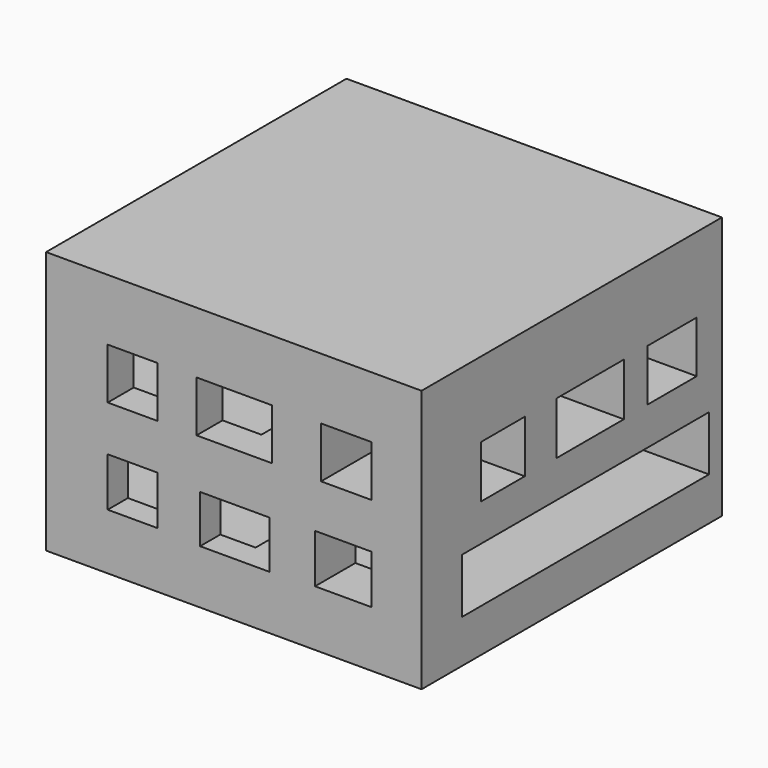
from build123d import *

# Parameters (mm, degrees)
F0_W      = 254
F0_H      = 177.8
F1_DEPTH  = 254
F2_W      = 24.176218
F2_H      = 76.2
F2_W_2    = 24.083782
F3_DEPTH  = 25.4
F4_W      = 33.765226
F4_H      = 33.023134
F4_W_2    = 38.217779
F4_W_3    = 34.136269
F4_H_2    = 34.507318
F4_W_4    = 51.204408
F5_DEPTH  = 254
F6_W      = 46.953924
F6_H      = 32.328948
F7_DEPTH  = 508
F8_W      = 227.147804
F8_H      = 45.486924
F8_W_2    = 42.393267
F8_H_2    = 41.027097
F8_W_3    = 63.705511
F8_H_3    = 42.462038
F8_W_4    = 41.108959
F8_H_4    = 39.725055
F9_DEPTH  = 254
F10_W     = 208.975072
F10_H     = 37.064538
F10_W_2   = 36.99249
F10_H_2   = 35.475526
F10_W_3   = 57.111204
F10_H_3   = 35.570968
F10_W_4   = 41.535424
F10_H_4   = 34.99518
F11_DEPTH = 127


with BuildPart() as f1:
    # F0 (on Front) → F1 (new body)
    with BuildSketch(Plane.XZ):
        with Locations((-1.067655, -37.961216)):
            Rectangle(F0_W, F0_H)
    extrude(amount=F1_DEPTH)

    # F2 (on Front) → F3 (cut)
    with BuildSketch(Plane.XZ):
        with Locations((-12.088109, -92.779977)):
            Rectangle(F2_W, F2_H)
        with Locations((12.041891, -92.779977)):
            Rectangle(F2_W_2, F2_H)
    extrude(amount=F3_DEPTH, mode=Mode.SUBTRACT)

    # F4 (on Front) → F5 (cut)
    with BuildSketch(Plane.XZ):
        with Locations((-69.497861, -72.430827)):
            Rectangle(F4_W, F4_H)
        with Locations((72.983959, -72.430827)):
            Rectangle(F4_W_2, F4_H)
        with Locations((75.024715, -7.868753)):
            Rectangle(F4_W_3, F4_H_2)
        with Locations((-69.497861, -7.868753)):
            Rectangle(F4_W, F4_H_2)
        with Locations((-0.668756, -7.868753)):
            Rectangle(F4_W_4, F4_H_2)
    extrude(amount=F5_DEPTH, mode=Mode.SUBTRACT)

    # F6 (on Front) → F7 (cut)
    with BuildSketch(Plane.XZ):
        with Locations((-0.388555, -74.189298)):
            Rectangle(F6_W, F6_H)
    extrude(amount=F7_DEPTH, mode=Mode.SUBTRACT)

    # F8 (on Right) → F9 (cut)
    with BuildSketch(Plane.YZ):
        with Locations((-123.347826, -77.906983)):
            Rectangle(F8_W, F8_H)
        with Locations((-210.81461, -11.680585)):
            Rectangle(F8_W_2, F8_H_2)
        with Locations((-129.083659, -11.576193)):
            Rectangle(F8_W_3, F8_H_3)
        with Locations((-52.509461, -9.497304)):
            Rectangle(F8_W_4, F8_H_4)
    extrude(amount=-F9_DEPTH, mode=Mode.SUBTRACT)

    # F10 (on Right) → F11 (cut)
    with BuildSketch(Plane.YZ):
        with Locations((-115.409213, -79.144068)):
            Rectangle(F10_W, F10_H)
        with Locations((-185.175732, -17.737763)):
            Rectangle(F10_W_2, F10_H_2)
        with Locations((-111.515269, -17.785484)):
            Rectangle(F10_W_3, F10_H_3)
        with Locations((-42.073241, -17.49759)):
            Rectangle(F10_W_4, F10_H_4)
    extrude(amount=F11_DEPTH, mode=Mode.SUBTRACT)


solid = f1.part
